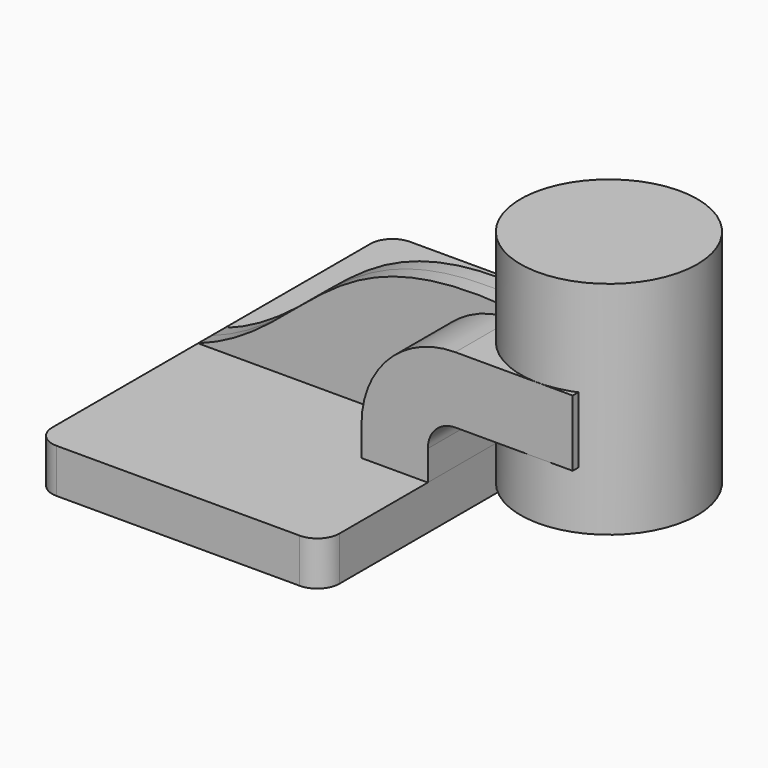
from build123d import *

# Parameters (mm, degrees)
F1_DEPTH = 63.5
F2_DEPTH = 4.7625
F0_W     = 9.9037646581
F0_H     = 19.05
F3_DEPTH = 25.4
F0_H_2   = 27.94
F5_R     = 6.35


with BuildPart() as f1:
    # F0 (on Front) → F1 (new body, symmetric)
    with BuildSketch(Plane.XZ):
        Polygon((41.275, -6.35), (41.275, 6.35), (22.225, 6.35), (-41.275, 6.35), (-41.275, -6.35), align=None)
    extrude(amount=F1_DEPTH, both=True)

    # F5
    f5_edges = [f1.edges().sort_by_distance(p)[0] for p in [
        (41.275, -63.5, 0),
        (-41.275, 63.5, 0),
        (-41.275, -63.5, 0),
        (41.275, 63.5, 0),
    ]]
    fillet(f5_edges, radius=F5_R)


with BuildPart() as f2:
    # F0 (on Front) → F2 (new body, symmetric)
    with BuildSketch(Plane.XZ):
        with BuildLine():
            Line((-41.275, 6.35), (22.225, 6.35))
            Line((22.225, 6.35), (22.225, 14.9517957091))
            ThreePointArc((22.225, 14.9517957091), (30.1208752282, 34.0141247718), (49.1832042909, 41.91))
            Line((49.1832042909, 41.91), (66.0559844745, 41.91))
            add(Edge.make_bspline(
                [(-41.275, 6.35), (-5.4980051752, 19.05), (-4.9508991651, 55.2328024244), (66.0559844745, 41.91)],
                knots=[0, 0, 0, 0, 113.0683590942, 113.0683590942, 113.0683590942, 113.0683590942], degree=3))
        make_face()
    extrude(amount=F2_DEPTH, both=True)


with BuildPart() as f3:
    # F0 (on Front) → F3 (new body, symmetric)
    with BuildSketch(Plane.XZ):
        with Locations((77.976882329, 32.385)):
            Rectangle(F0_W, F0_H)
        with BuildLine():
            Line((22.225, 6.35), (41.275, 6.35))
            Line((41.275, 6.35), (41.275, 14.9517957091))
            ThreePointArc((41.275, 14.9517957091), (43.5912594098, 20.5437405902), (49.1832042909, 22.86))
            Line((49.1832042909, 22.86), (73.025, 22.86))
            Line((73.025, 22.86), (73.025, 41.91))
            Line((73.025, 41.91), (66.0559844745, 41.91))
            Line((66.0559844745, 41.91), (49.1832042909, 41.91))
            ThreePointArc((49.1832042909, 41.91), (30.1208752282, 34.0141247718), (22.225, 14.9517957091))
            Line((22.225, 14.9517957091), (22.225, 6.35))
        make_face()
    extrude(amount=F3_DEPTH, both=True)


with BuildPart() as f4:
    # F0 (on Front) → F4 (revolve)
    with BuildSketch(Plane.XZ):
        Polygon((82.9287646581, 41.91), (82.9287646581, 22.86), (82.9287646581, 6.35), (98.425, 6.35), (98.425, 69.85), (82.9287646581, 69.85), align=None)
        with Locations((77.976882329, 55.88)):
            Rectangle(F0_W, F0_H_2)
    revolve(axis=Axis((73.025, 0, 38.1), (0, 0, 1)))


solid = Compound([f1.part, f2.part, f3.part, f4.part])
